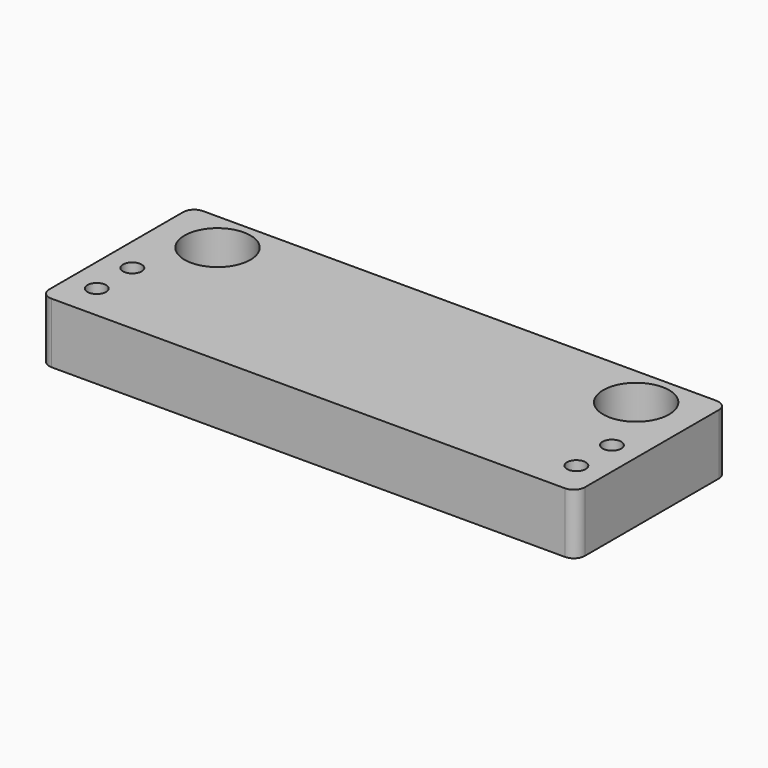
from build123d import *

# Parameters (mm, degrees)
F0_W     = 97.5
F0_H     = 34.5
F0_R     = 1.7
F0_R_2   = 3.4
F1_DEPTH = 11
F2_R     = 6
F3_DEPTH = 8
F4_R     = 2


with BuildPart() as f1:
    # F0 (on Top) → F1 (new body)
    with BuildSketch(Plane.XY):
        with Locations((0, 6.75)):
            Rectangle(F0_W, F0_H)
        with Locations((-43.65, -4.05)):
            Circle(F0_R, mode=Mode.SUBTRACT)
        with Locations((-43.65, 4.05)):
            Circle(F0_R, mode=Mode.SUBTRACT)
        with Locations((43.65, -4.05)):
            Circle(F0_R, mode=Mode.SUBTRACT)
        with Locations((43.65, 4.05)):
            Circle(F0_R, mode=Mode.SUBTRACT)
        with Locations((-38.1, 16.5)):
            Circle(F0_R_2, mode=Mode.SUBTRACT)
        with Locations((38.1, 16.5)):
            Circle(F0_R_2, mode=Mode.SUBTRACT)
    extrude(amount=F1_DEPTH)

    # F2 (on face) → F3 (cut)
    with BuildSketch(Plane.XY.offset(11)):
        with Locations((-38.1, 16.5)):
            Circle(F2_R)
        with Locations((38.1, 16.5)):
            Circle(F2_R)
    extrude(amount=-F3_DEPTH, mode=Mode.SUBTRACT)

    # F4
    f4_edges = [f1.edges().sort_by_distance(p)[0] for p in [
        (-48.75, -10.5, 5.5),
        (-48.75, 24, 5.5),
        (48.75, -10.5, 5.5),
        (48.75, 24, 5.5),
    ]]
    fillet(f4_edges, radius=F4_R)


solid = f1.part
